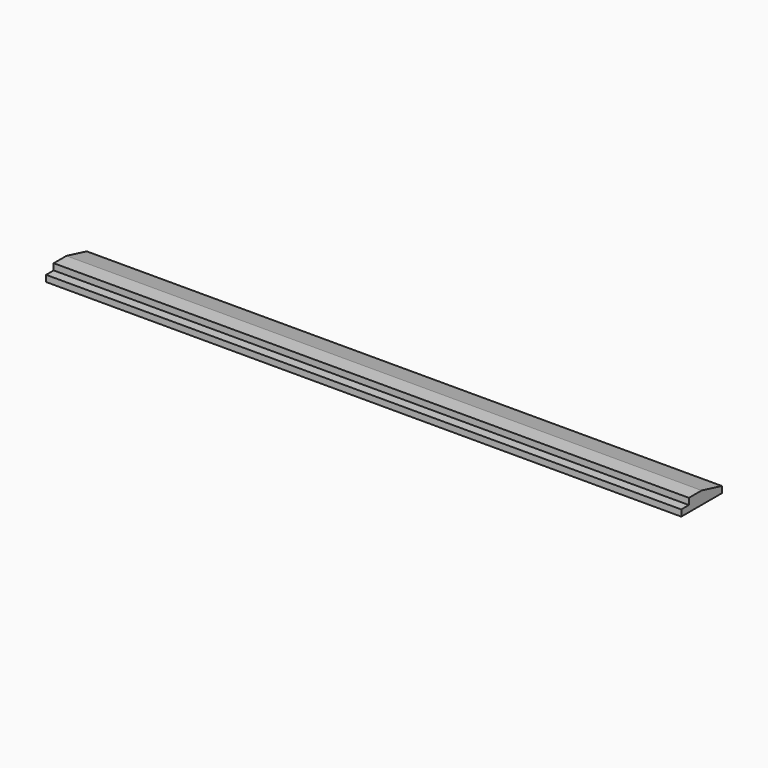
from build123d import *

# Parameters (mm, degrees)
F0_W      = 1270
F0_H      = 82.55
F1_DEPTH  = 12.7
F0_H_2    = 19.05
F1_FACE_W = 1270
F1_FACE_H = 82.55
F2_DEPTH  = 12.7
F3_SIZE2  = 50.8
F3_SIZE   = 12.7


with BuildPart() as f1:
    # F0 (on Top) → F1 (new body)
    with BuildSketch(Plane.XY):
        with Locations((378.9642523047, 18.4307628065)):
            Rectangle(F0_W, F0_H)
    extrude(amount=F1_DEPTH)

    # F0 (on Top) + F1_face (on face) → F2 (join)
    with BuildSketch(Plane.XY):
        with Locations((378.9642523047, 18.4307628065)):
            Rectangle(F0_W, F0_H)
        with Locations((378.9642523047, -32.3692371935)):
            Rectangle(F0_W, F0_H_2)
    with BuildSketch(Plane(origin=(378.9642523047, 18.4307628065, 12.7), x_dir=(1, 0, 0), z_dir=(0, 0, 1))):
        Rectangle(F1_FACE_W, F1_FACE_H)
    extrude(amount=F2_DEPTH)

    # F3
    f3_edges = [f1.edges().sort_by_distance(p)[0] for p in [
        (378.964252, 59.705763, 25.4),
    ]]
    f3_side = f1.faces().sort_by_distance((378.964252, 59.705763, 12.7))[0]
    chamfer(f3_edges, length=F3_SIZE, length2=F3_SIZE2, reference=f3_side)


solid = f1.part
